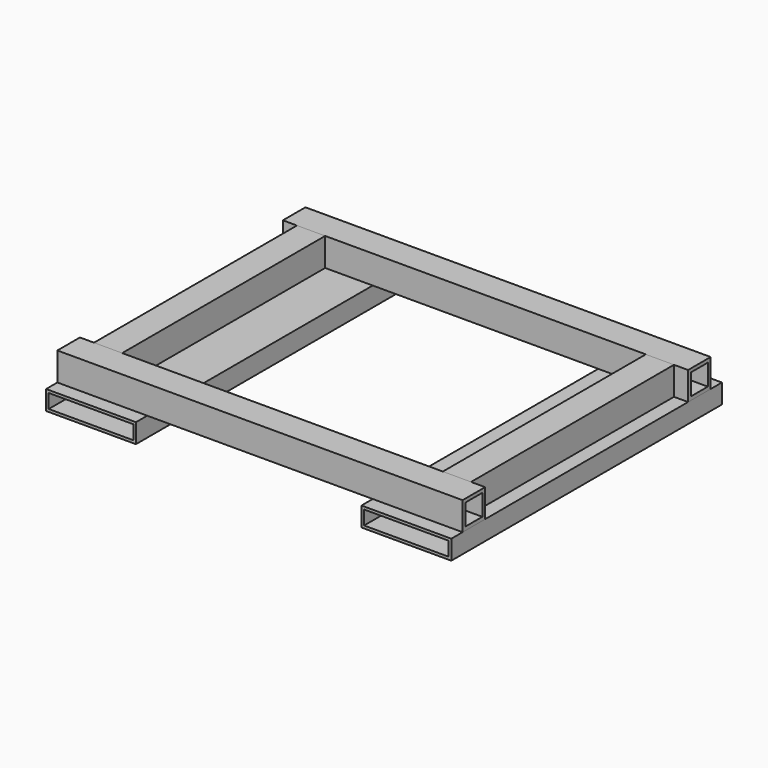
from build123d import *

# Parameters (mm, degrees)
F0_W     = 323.85
F0_H     = 69.85
F0_W_2   = 304.8
F0_H_2   = 50.8
F1_DEPTH = 609.6
F2_W     = 101.6
F2_H     = 101.6
F2_W_2   = 76.2
F2_H_2   = 76.2
F3_DEPTH = 1460.5
F4_W     = 101.6
F4_H     = 101.6
F4_W_2   = 76.2
F4_H_2   = 76.2
F5_DEPTH = 914.4


with BuildPart() as f1:
    # F0 (on Front) → F1 (new body, symmetric)
    with BuildSketch(Plane.XZ):
        with Locations((-568.325, 0)):
            Rectangle(F0_W, F0_H)
        with Locations((-568.325, 0)):
            Rectangle(F0_W_2, F0_H_2, mode=Mode.SUBTRACT)
        with Locations((568.325, 0)):
            Rectangle(F0_W, F0_H)
        with Locations((568.325, 0)):
            Rectangle(F0_W_2, F0_H_2, mode=Mode.SUBTRACT)
    extrude(amount=F1_DEPTH, both=True)


with BuildPart() as f3:
    # F2 (on face) → F3 (new body)
    with BuildSketch(Plane(origin=(-730.25, 0, 0), x_dir=(0, -1, 0), z_dir=(-1, 0, 0))):
        with Locations((508, 85.725)):
            Rectangle(F2_W, F2_H)
        with Locations((508, 85.725)):
            Rectangle(F2_W_2, F2_H_2, mode=Mode.SUBTRACT)
        with Locations((-508, 85.725)):
            Rectangle(F2_W, F2_H)
        with Locations((-508, 85.725)):
            Rectangle(F2_W_2, F2_H_2, mode=Mode.SUBTRACT)
    extrude(amount=-F3_DEPTH)


with BuildPart() as f5:
    # F4 (on face) → F5 (new body)
    with BuildSketch(Plane.XZ.offset(-457.2)):
        with Locations((-628.65, 85.725)):
            Rectangle(F4_W, F4_H)
        with Locations((-628.65, 85.725)):
            Rectangle(F4_W_2, F4_H_2, mode=Mode.SUBTRACT)
        with Locations((628.65, 85.725)):
            Rectangle(F4_W, F4_H)
        with Locations((628.65, 85.725)):
            Rectangle(F4_W_2, F4_H_2, mode=Mode.SUBTRACT)
    extrude(amount=F5_DEPTH)


solid = Compound([f1.part, f3.part, f5.part])
